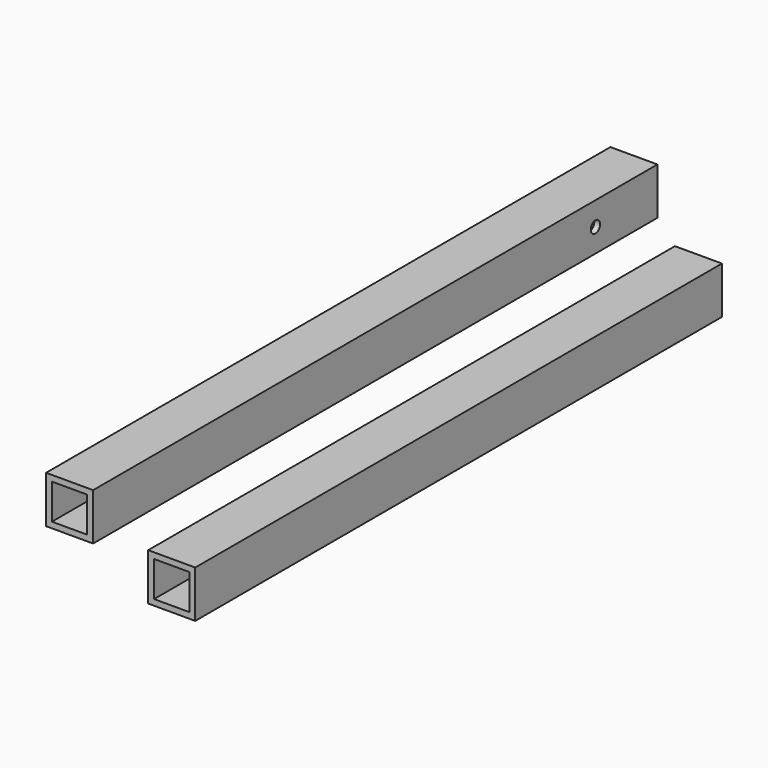
from build123d import *

# Parameters (mm, degrees)
F0_W     = 25.4
F0_H     = 381
F1_DEPTH = 25.4
F0_H_2   = 355.6
F2_T     = -3.175
F2_2_T   = -3.175
F4_D     = 6.35


with BuildPart() as f1:
    # F0 (on Top) → F1 (new body)
    with BuildSketch(Plane.XY):
        with Locations((-34.586421214, 171.0971277789)):
            Rectangle(F0_W, F0_H)
    extrude(amount=F1_DEPTH)

    # F2
    f2_openings = [f1.faces().sort_by_distance(p)[0] for p in [
        (-34.586421, -19.402872, 12.7),
        (-34.586421, 361.597128, 12.7),
    ]]
    offset(amount=F2_T, openings=f2_openings)

    # F4 (through all)
    with Locations(Plane(origin=(-47.286421214, 0, 0), x_dir=(0, -1, 0), z_dir=(-1, 0, 0))):
        with Locations((-319.7601735592, 12.7)):
            Hole(F4_D / 2)


with BuildPart() as f1b:
    # F0 (on Top) → F1, piece 2 (new body)
    with BuildSketch(Plane.XY):
        with Locations((43.2012185127, 130.117468822)):
            Rectangle(F0_W, F0_H_2)
    extrude(amount=F1_DEPTH)

    # F2#2
    f2_2_openings = [f1b.faces().sort_by_distance(p)[0] for p in [
        (43.201219, -47.682531, 12.7),
        (43.201219, 307.917469, 12.7),
    ]]
    offset(amount=F2_2_T, openings=f2_2_openings)


solid = Compound([f1.part, f1b.part])
